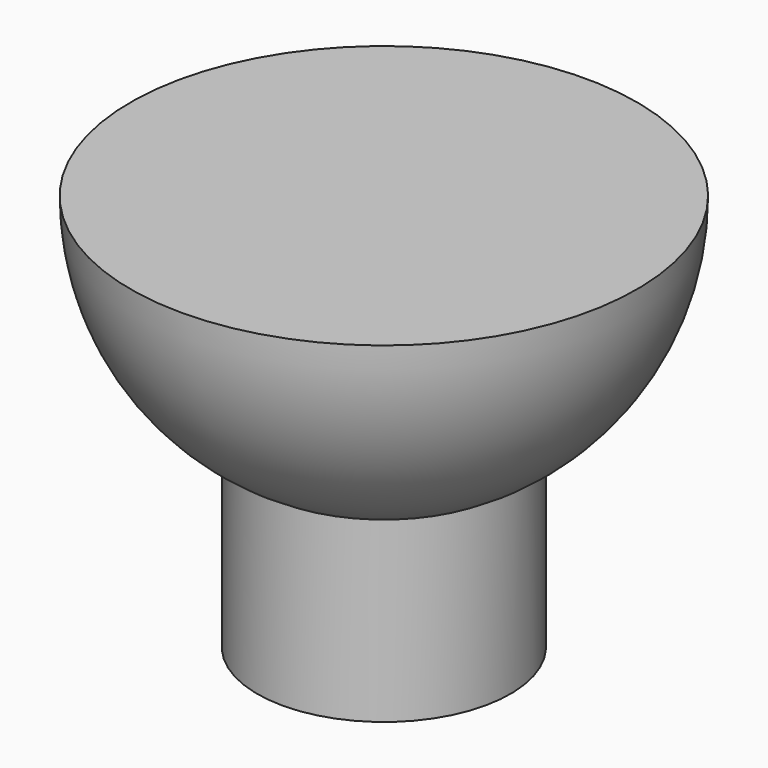
from build123d import *

# Parameters (mm, degrees)
F3_D     = 4.4958
F3_DEPTH = 12.7
F3_TIP   = 1.3506745855


with BuildPart() as f1:
    # F0 (on Right) → F1 (revolve)
    with BuildSketch(Plane.YZ):
        with BuildLine():
            Line((-6.35, 0), (0, 0))
            Line((0, 0), (0, 7.2328258495))
            Line((0, 7.2328258495), (0, 19.9328258495))
            Line((0, 19.9328258495), (-12.7, 19.9328258495))
            ThreePointArc((-12.7, 19.9328258495), (-10.9985226281, 13.5828258495), (-6.35, 8.9343032215))
            Line((-6.35, 8.9343032215), (-6.35, 0))
        make_face()
    revolve(axis=Axis((0, 0, 13.5828258495), (0, 0, -1)))

    # F3
    with Locations(Plane(origin=(0, 0, 0), x_dir=(1, 0, 0), z_dir=(0, 0, -1))):
        with Locations((0, 0)):
            Hole(F3_D / 2, depth=F3_DEPTH)
            with Locations((0, 0, -(F3_DEPTH + F3_TIP / 2))):  # 118° drill point
                Cone(0, F3_D / 2, F3_TIP, mode=Mode.SUBTRACT)


solid = f1.part
